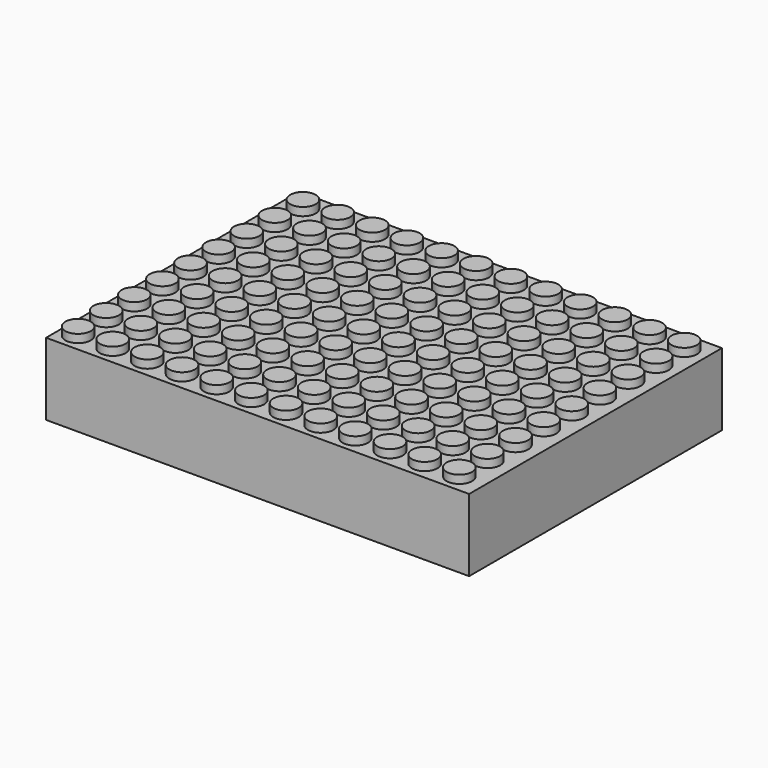
from build123d import *

# Parameters (mm, degrees)
F0_W     = 527.05
F0_H     = 393.7
F1_DEPTH = 90.17
F2_R     = 15.875
F3_DEPTH = 10.16


with BuildPart() as f1:
    # F0 (on Top) → F1 (new body)
    with BuildSketch(Plane.XY):
        Rectangle(F0_W, F0_H)
    extrude(amount=F1_DEPTH)

    # F2 (on face) → F3 (join)
    with BuildSketch(Plane.XY.offset(90.17)):
        with Locations((-238.125, 171.45)):
            Circle(F2_R)
        with Locations((-194.945, 171.45)):
            Circle(F2_R)
        with Locations((-151.765, 171.45)):
            Circle(F2_R)
        with Locations((-108.585, 171.45)):
            Circle(F2_R)
        with Locations((-65.405, 171.45)):
            Circle(F2_R)
        with Locations((-22.225, 171.45)):
            Circle(F2_R)
        with Locations((20.955, 171.45)):
            Circle(F2_R)
        with Locations((64.135, 171.45)):
            Circle(F2_R)
        with Locations((107.315, 171.45)):
            Circle(F2_R)
        with Locations((150.495, 171.45)):
            Circle(F2_R)
        with Locations((193.675, 171.45)):
            Circle(F2_R)
        with Locations((236.855, 171.45)):
            Circle(F2_R)
        with Locations((236.375252, 128.272665)):
            Circle(F2_R)
        with Locations((193.195252, 128.272665)):
            Circle(F2_R)
        with Locations((150.015252, 128.272665)):
            Circle(F2_R)
        with Locations((106.835252, 128.272665)):
            Circle(F2_R)
        with Locations((63.655252, 128.272665)):
            Circle(F2_R)
        with Locations((20.475252, 128.272665)):
            Circle(F2_R)
        with Locations((-22.704748, 128.272665)):
            Circle(F2_R)
        with Locations((-65.884748, 128.272665)):
            Circle(F2_R)
        with Locations((-109.064748, 128.272665)):
            Circle(F2_R)
        with Locations((-152.244748, 128.272665)):
            Circle(F2_R)
        with Locations((-195.424748, 128.272665)):
            Circle(F2_R)
        with Locations((-238.604748, 128.272665)):
            Circle(F2_R)
        with Locations((-239.084496, 85.09533)):
            Circle(F2_R)
        with Locations((-195.904496, 85.09533)):
            Circle(F2_R)
        with Locations((-152.724496, 85.09533)):
            Circle(F2_R)
        with Locations((-109.544496, 85.09533)):
            Circle(F2_R)
        with Locations((-66.364496, 85.09533)):
            Circle(F2_R)
        with Locations((-23.184496, 85.09533)):
            Circle(F2_R)
        with Locations((19.995504, 85.09533)):
            Circle(F2_R)
        with Locations((63.175504, 85.09533)):
            Circle(F2_R)
        with Locations((106.355504, 85.09533)):
            Circle(F2_R)
        with Locations((149.535504, 85.09533)):
            Circle(F2_R)
        with Locations((192.715504, 85.09533)):
            Circle(F2_R)
        with Locations((235.895504, 85.09533)):
            Circle(F2_R)
        with Locations((235.415756, 41.917996)):
            Circle(F2_R)
        with Locations((192.235756, 41.917996)):
            Circle(F2_R)
        with Locations((149.055756, 41.917996)):
            Circle(F2_R)
        with Locations((105.875756, 41.917996)):
            Circle(F2_R)
        with Locations((62.695756, 41.917996)):
            Circle(F2_R)
        with Locations((19.515756, 41.917996)):
            Circle(F2_R)
        with Locations((-23.664244, 41.917996)):
            Circle(F2_R)
        with Locations((-66.844244, 41.917996)):
            Circle(F2_R)
        with Locations((-110.024244, 41.917996)):
            Circle(F2_R)
        with Locations((-153.204244, 41.917996)):
            Circle(F2_R)
        with Locations((-196.384244, 41.917996)):
            Circle(F2_R)
        with Locations((-239.564244, 41.917996)):
            Circle(F2_R)
        with Locations((-240.043993, -1.259339)):
            Circle(F2_R)
        with Locations((-240.523741, -44.436674)):
            Circle(F2_R)
        with Locations((-196.863993, -1.259339)):
            Circle(F2_R)
        with Locations((-197.343741, -44.436674)):
            Circle(F2_R)
        with Locations((-153.683993, -1.259339)):
            Circle(F2_R)
        with Locations((-154.163741, -44.436674)):
            Circle(F2_R)
        with Locations((-110.503993, -1.259339)):
            Circle(F2_R)
        with Locations((-110.983741, -44.436674)):
            Circle(F2_R)
        with Locations((-67.323993, -1.259339)):
            Circle(F2_R)
        with Locations((-67.803741, -44.436674)):
            Circle(F2_R)
        with Locations((-24.143993, -1.259339)):
            Circle(F2_R)
        with Locations((-24.623741, -44.436674)):
            Circle(F2_R)
        with Locations((19.036007, -1.259339)):
            Circle(F2_R)
        with Locations((18.556259, -44.436674)):
            Circle(F2_R)
        with Locations((62.216007, -1.259339)):
            Circle(F2_R)
        with Locations((61.736259, -44.436674)):
            Circle(F2_R)
        with Locations((105.396007, -1.259339)):
            Circle(F2_R)
        with Locations((104.916259, -44.436674)):
            Circle(F2_R)
        with Locations((148.576007, -1.259339)):
            Circle(F2_R)
        with Locations((148.096259, -44.436674)):
            Circle(F2_R)
        with Locations((191.756007, -1.259339)):
            Circle(F2_R)
        with Locations((191.276259, -44.436674)):
            Circle(F2_R)
        with Locations((234.936007, -1.259339)):
            Circle(F2_R)
        with Locations((234.456259, -44.436674)):
            Circle(F2_R)
        with Locations((233.976511, -87.614009)):
            Circle(F2_R)
        with Locations((233.496763, -130.791344)):
            Circle(F2_R)
        with Locations((233.017015, -173.968679)):
            Circle(F2_R)
        with Locations((189.837015, -173.968679)):
            Circle(F2_R)
        with Locations((190.316763, -130.791344)):
            Circle(F2_R)
        with Locations((190.796511, -87.614009)):
            Circle(F2_R)
        with Locations((147.616511, -87.614009)):
            Circle(F2_R)
        with Locations((147.136763, -130.791344)):
            Circle(F2_R)
        with Locations((146.657015, -173.968679)):
            Circle(F2_R)
        with Locations((103.477015, -173.968679)):
            Circle(F2_R)
        with Locations((103.956763, -130.791344)):
            Circle(F2_R)
        with Locations((104.436511, -87.614009)):
            Circle(F2_R)
        with Locations((61.256511, -87.614009)):
            Circle(F2_R)
        with Locations((60.776763, -130.791344)):
            Circle(F2_R)
        with Locations((60.297015, -173.968679)):
            Circle(F2_R)
        with Locations((17.117015, -173.968679)):
            Circle(F2_R)
        with Locations((17.596763, -130.791344)):
            Circle(F2_R)
        with Locations((18.076511, -87.614009)):
            Circle(F2_R)
        with Locations((-25.103489, -87.614009)):
            Circle(F2_R)
        with Locations((-25.583237, -130.791344)):
            Circle(F2_R)
        with Locations((-26.062985, -173.968679)):
            Circle(F2_R)
        with Locations((-69.242985, -173.968679)):
            Circle(F2_R)
        with Locations((-68.763237, -130.791344)):
            Circle(F2_R)
        with Locations((-68.283489, -87.614009)):
            Circle(F2_R)
        with Locations((-111.463489, -87.614009)):
            Circle(F2_R)
        with Locations((-111.943237, -130.791344)):
            Circle(F2_R)
        with Locations((-112.422985, -173.968679)):
            Circle(F2_R)
        with Locations((-155.602985, -173.968679)):
            Circle(F2_R)
        with Locations((-155.123237, -130.791344)):
            Circle(F2_R)
        with Locations((-154.643489, -87.614009)):
            Circle(F2_R)
        with Locations((-197.823489, -87.614009)):
            Circle(F2_R)
        with Locations((-198.303237, -130.791344)):
            Circle(F2_R)
        with Locations((-198.782985, -173.968679)):
            Circle(F2_R)
        with Locations((-241.962985, -173.968679)):
            Circle(F2_R)
        with Locations((-241.483237, -130.791344)):
            Circle(F2_R)
        with Locations((-241.003489, -87.614009)):
            Circle(F2_R)
    extrude(amount=F3_DEPTH)


solid = f1.part
